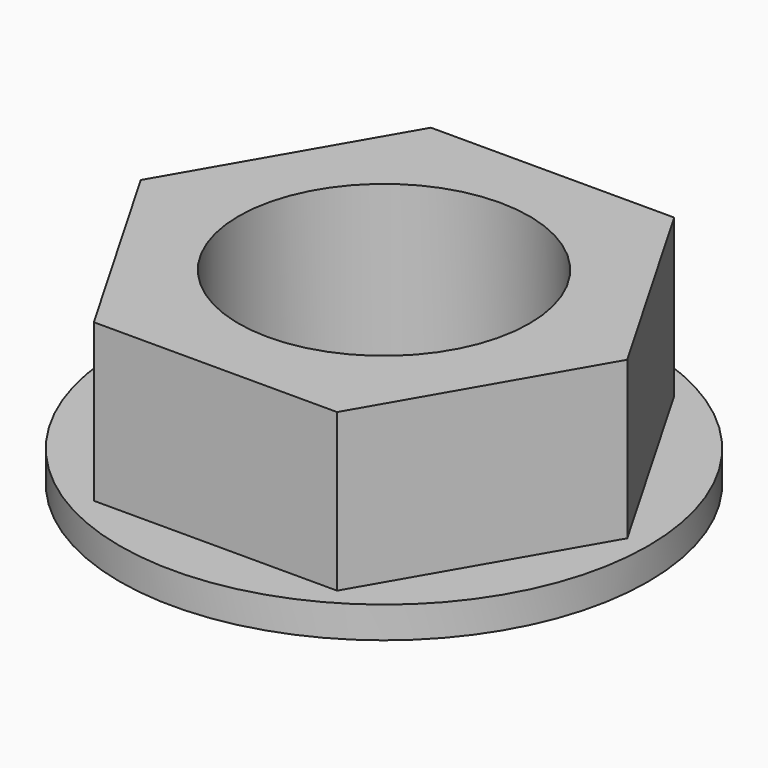
from build123d import *

# Parameters (mm, degrees)
PAD001_DEPTH      = 6
SKETCH004_R       = 8.4
PAD002_DEPTH      = 1
SKETCH005_R       = 4.625
POCKET_DEPTH      = 0.001
POCKET_DEPTH_BACK = 6.001


with BuildPart() as part:
    # Sketch003 → Pad001 (new body)
    with BuildSketch(Plane.XY):
        Polygon((7.736494, 0), (3.868247, 6.7), (-3.868247, 6.7), (-7.736494, 0), (-3.868247, -6.7), (3.868247, -6.7), align=None)
    extrude(amount=PAD001_DEPTH)

    # Sketch004 → Pad002 (join)
    with BuildSketch(Plane.XY):
        Circle(SKETCH004_R)
    extrude(amount=PAD002_DEPTH)

    # Sketch005 → Pocket (cut, two sides)
    with BuildSketch(Plane.XY) as pocket_sk:
        Circle(SKETCH005_R)
    extrude(amount=-POCKET_DEPTH, mode=Mode.SUBTRACT)
    extrude(pocket_sk.sketch, amount=POCKET_DEPTH_BACK, mode=Mode.SUBTRACT)


solid = part.part
